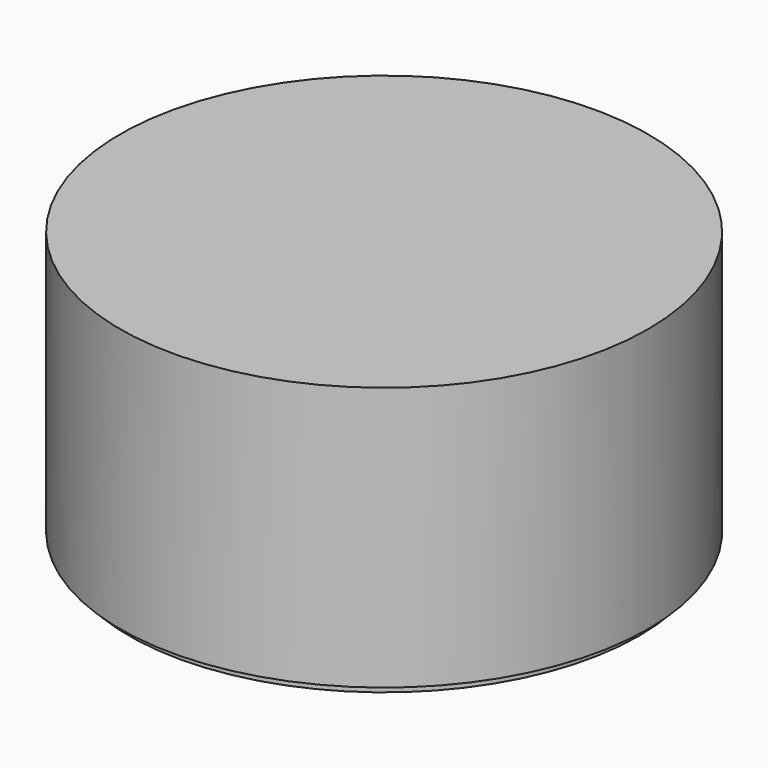
from build123d import *

# Parameters (mm, degrees)
SKETCH_R        = 30
PAD_DEPTH       = 20
SKETCH001_R     = 29
POCKET_DEPTH    = 1
SKETCH002_R     = 28
POCKET001_DEPTH = 19
SKETCH003_R     = 30
PAD001_DEPTH    = 31
SKETCH004_R     = 28
POCKET002_DEPTH = 29.5


with BuildPart() as body:
    # Sketch → Pad (new body)
    with BuildSketch(Plane.XY):
        Circle(SKETCH_R)
    extrude(amount=PAD_DEPTH)

    # Sketch001 → Pocket (cut)
    with BuildSketch(Plane.XY.offset(20)):
        Circle(SKETCH001_R)
    extrude(amount=-POCKET_DEPTH, mode=Mode.SUBTRACT)

    # Sketch002 (on Face3 of Pocket) → Pocket001 (cut)
    with BuildSketch(Plane.XY.offset(20)):
        Circle(SKETCH002_R)
    extrude(amount=-POCKET001_DEPTH, mode=Mode.SUBTRACT)


with BuildPart() as cut:
    # Sketch003 → Pad001 (new body)
    with BuildSketch(Plane.XY.offset(50)):
        Circle(SKETCH003_R)
    extrude(amount=-PAD001_DEPTH)

    # Sketch004 (on Face2 of Pad001) → Pocket002 (cut, symmetric)
    with BuildSketch(Plane.XY.offset(20)):
        Circle(SKETCH004_R)
    extrude(amount=POCKET002_DEPTH, both=True, mode=Mode.SUBTRACT)

    # Cut: cut Body
    add(body.part, mode=Mode.SUBTRACT)


solid = cut.part
